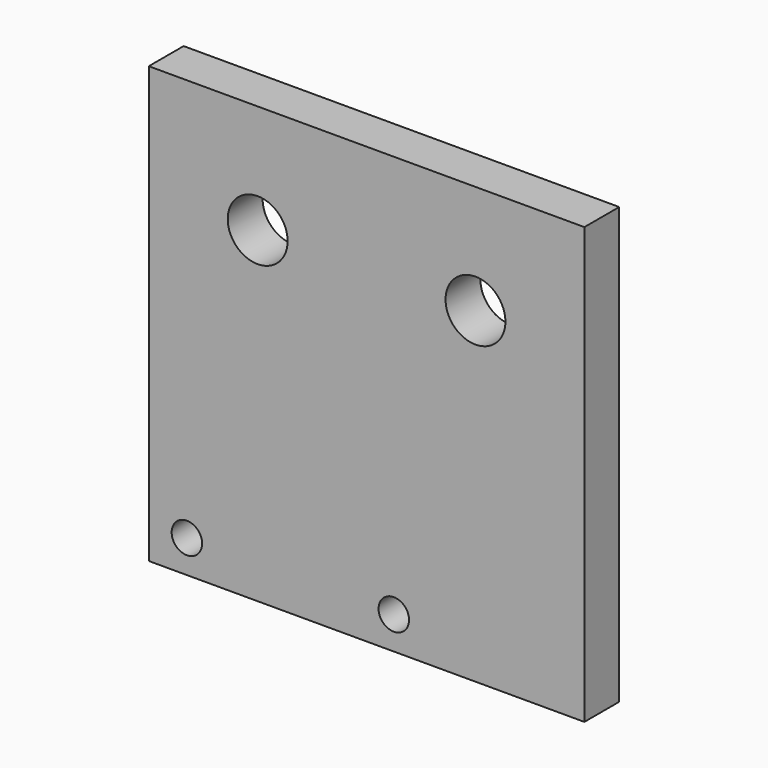
from build123d import *

# Parameters (mm, degrees)
F0_W     = 40
F0_H     = 40
F0_R     = 1.4
F0_R_2   = 2.75
F1_DEPTH = 4


with BuildPart() as f1:
    # F0 (on Front) → F1 (new body)
    with BuildSketch(Plane.XZ):
        with Locations((20, 20)):
            Rectangle(F0_W, F0_H)
        with Locations((3.5, 3)):
            Circle(F0_R, mode=Mode.SUBTRACT)
        with Locations((22.5, 3)):
            Circle(F0_R, mode=Mode.SUBTRACT)
        with Locations((10, 30)):
            Circle(F0_R_2, mode=Mode.SUBTRACT)
        with Locations((30, 30)):
            Circle(F0_R_2, mode=Mode.SUBTRACT)
    extrude(amount=F1_DEPTH)


solid = f1.part
